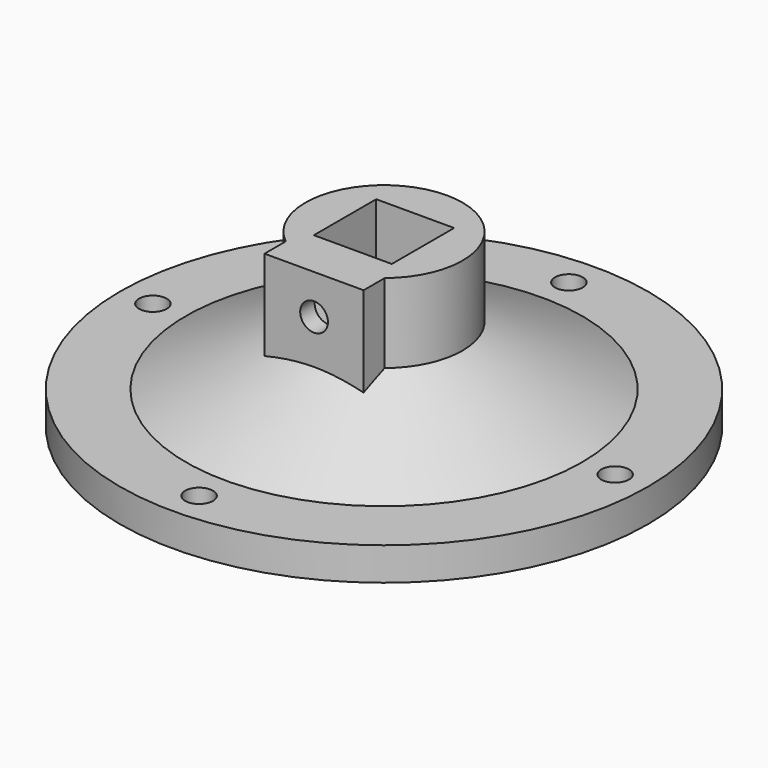
from build123d import *

# Parameters (mm, degrees)
SKETCH006_W   = 11.8
SKETCH006_H   = 11.8
PAD006_DEPTH  = 30
SKETCH001_R   = 40
SKETCH001_R_2 = 2.1
PAD001_DEPTH  = 5
PAD004_DEPTH  = 10.5
SKETCH005_R   = 2.1
PAD005_DEPTH  = 20
SKETCH_W      = 11.8
SKETCH_H      = 11.8
PAD_DEPTH     = 15


with BuildPart() as pad006:
    # Sketch006 → Pad006 (new body)
    with BuildSketch(Plane.XY):
        Rectangle(SKETCH006_W, SKETCH006_H)
    extrude(amount=PAD006_DEPTH)


with BuildPart() as pad001:
    # Sketch001 → Pad001 (new body)
    with BuildSketch(Plane.XY):
        Circle(SKETCH001_R)
        with Locations((0, 35)):
            Circle(SKETCH001_R_2, mode=Mode.SUBTRACT)
        with Locations((-35, 0)):
            Circle(SKETCH001_R_2, mode=Mode.SUBTRACT)
        with Locations((35, 0)):
            Circle(SKETCH001_R_2, mode=Mode.SUBTRACT)
        with Locations((0, -35)):
            Circle(SKETCH001_R_2, mode=Mode.SUBTRACT)
    extrude(amount=PAD001_DEPTH)


with BuildPart() as vis:
    # Cone → Cone (revolve)
    with BuildSketch(Plane(origin=(0, 0, 5), x_dir=(1, 0, 0), z_dir=(0, -1, 0))):
        Polygon((0, 0), (30, 0), (11.9, 9), (0, 9), align=None)
    revolve(axis=Axis((0, 0, 5), (0, 0, 1)))

    # Fusion001: union Pad001
    add(pad001.part)

    # Cut001: cut Pad006
    add(pad006.part, mode=Mode.SUBTRACT)


with BuildPart() as pad004:
    # Sketch004 → Pad004 (new body)
    with BuildSketch(Plane.XZ):
        Polygon((4.25, 24), (2.125, 27.680608), (-2.125, 27.680608), (-4.25, 24), (-2.125, 20.319392), (2.125, 20.319392), align=None)
    extrude(amount=PAD004_DEPTH)


with BuildPart() as screw_hole:
    # Sketch005 → Pad005 (new body)
    with BuildSketch(Plane.XZ):
        with Locations((0, 24)):
            Circle(SKETCH005_R)
    extrude(amount=PAD005_DEPTH)

    # Fusion: union Pad004
    add(pad004.part)


with BuildPart() as mobile:
    # Sketch → Pad (new body)
    with BuildSketch(Plane.XY.offset(15)):
        with BuildLine():
            ThreePointArc((7.5, -9.239048), (0, 11.9), (-7.5, -9.239048))
            Line((-7.5, -9.239048), (-7.5, -13.239048))
            Line((-7.5, -13.239048), (7.5, -13.239048))
            Line((7.5, -13.239048), (7.5, -9.239048))
        make_face()
        Rectangle(SKETCH_W, SKETCH_H, mode=Mode.SUBTRACT)
    extrude(amount=PAD_DEPTH)

    # Cut: cut screw_hole
    add(screw_hole.part, mode=Mode.SUBTRACT)


with BuildPart() as mobile_1:
    # Cut placement: moved
    add(mobile.part.moved(Location((0, 0, -4))))

    # Fusion002: union vis
    add(vis.part)


solid = mobile_1.part
